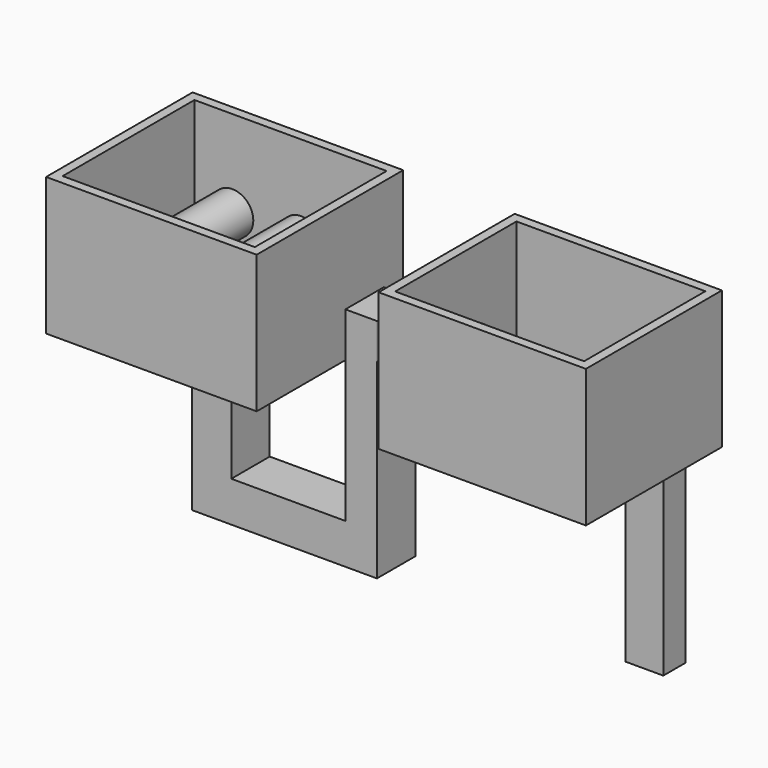
from build123d import *

# Parameters (mm, degrees)
F0_W      = 58.1890968606
F0_H      = 50.6123900414
F1_DEPTH  = 38.1
F2_W      = 57.2798922658
F2_H      = 46.9755697995
F3_DEPTH  = 38.1
F5_W      = 10.9104551375
F5_H      = 13.2867023349
F6_DEPTH  = 44.19023
F7_W      = 13.2867023349
F7_H      = 11.1557973206
F8_DEPTH  = 40.25034
F9_W      = 8.7312487776
F9_H      = 13.2867023349
F10_DEPTH = 51.46386
F12_W     = 10.4440525174
F12_H     = 7.7061494812
F13_DEPTH = 49.64546
F14_T     = -2.54
F15_T     = -2.54
F11_W     = 13.2867023349
F11_H     = 9.7652821862
F16_DEPTH = 19.59361
F17_T     = -2.54
F18_R     = 4.9041539646
F19_DEPTH = 46.8809679151
F20_R     = 5.3757066386
F21_DEPTH = 47.4310778081
F22_R     = 5.788816606
F23_DEPTH = 46.9942092896


with BuildPart() as f1:
    # F0 (on Top) → F1 (new body)
    with BuildSketch(Plane.XY):
        with Locations((-39.2473326065, -1.3638064265)):
            Rectangle(F0_W, F0_H)
    extrude(amount=F1_DEPTH)

    # F5 (on face) → F6 (join)
    with BuildSketch(Plane(origin=(0, 0, 0), x_dir=(1, 0, 0), z_dir=(0, 0, -1))):
        with Locations((-39.8426409811, -1.5001110733)):
            Rectangle(F5_W, F5_H)
    extrude(amount=F6_DEPTH)

    # F7 (on face) → F8 (join)
    with BuildSketch(Plane.YZ.offset(-34.3874134123)):
        with Locations((1.5001110733, -38.6123313397)):
            Rectangle(F7_W, F7_H)
    extrude(amount=F8_DEPTH)

    # F9 (on face) → F10 (join)
    with BuildSketch(Plane.XY.offset(-33.0344326794)):
        with Locations((1.4973021989, 1.5001110733)):
            Rectangle(F9_W, F9_H)
    extrude(amount=F10_DEPTH)

    # F14
    f14_openings = [f1.faces().sort_by_distance(p)[0] for p in [
        (-39.247333, -1.363806, 38.1),
    ]]
    offset(amount=F14_T, openings=f14_openings, kind=Kind.INTERSECTION)

    # F18 (on face) → F19 (join)
    with BuildSketch(Plane(origin=(0, -24.1300014472, 0), x_dir=(-1, 0, 0), z_dir=(0, 1, 0))):
        with Locations((19.3353164941, 13.1375342607)):
            Circle(F18_R)
    extrude(amount=F19_DEPTH)

    # F20 (on face) → F21 (join)
    with BuildSketch(Plane(origin=(0, -24.1300014472, 0), x_dir=(-1, 0, 0), z_dir=(0, 1, 0))):
        with Locations((36.4158973098, 14.0606872737)):
            Circle(F20_R)
    extrude(amount=F21_DEPTH)

    # F22 (on face) → F23 (join)
    with BuildSketch(Plane.XZ.offset(-21.4023885942)):
        with Locations((-55.3287565708, 14.0480548143)):
            Circle(F22_R)
    extrude(amount=F23_DEPTH)


with BuildPart() as f3:
    # F2 (on Top) → F3 (new body)
    with BuildSketch(Plane.XY):
        with Locations((50.0062517822, -0.4546036944)):
            Rectangle(F2_W, F2_H)
    extrude(amount=F3_DEPTH)

    # F12 (on face) → F13 (join)
    with BuildSketch(Plane(origin=(0, 0, 0), x_dir=(1, 0, 0), z_dir=(0, 0, -1))):
        with Locations((70.7170628011, -10.0238914602)):
            Rectangle(F12_W, F12_H)
    extrude(amount=F13_DEPTH)

    # F15
    f15_openings = [f3.faces().sort_by_distance(p)[0] for p in [
        (50.006252, -0.454604, 38.1),
    ]]
    offset(amount=F15_T, openings=f15_openings, kind=Kind.INTERSECTION)


with BuildPart() as f16:
    # F11 (on face) → F16 (new body)
    with BuildSketch(Plane.YZ.offset(5.8629265877)):
        with Locations((1.5001110733, 13.5467862275)):
            Rectangle(F11_W, F11_H)
    extrude(amount=F16_DEPTH)

    # F17
    f17_openings = [f16.faces().sort_by_distance(p)[0] for p in [
        (25.456537, 1.500111, 13.546786),
    ]]
    offset(amount=F17_T, openings=f17_openings)


solid = Compound([f1.part, f3.part, f16.part])
